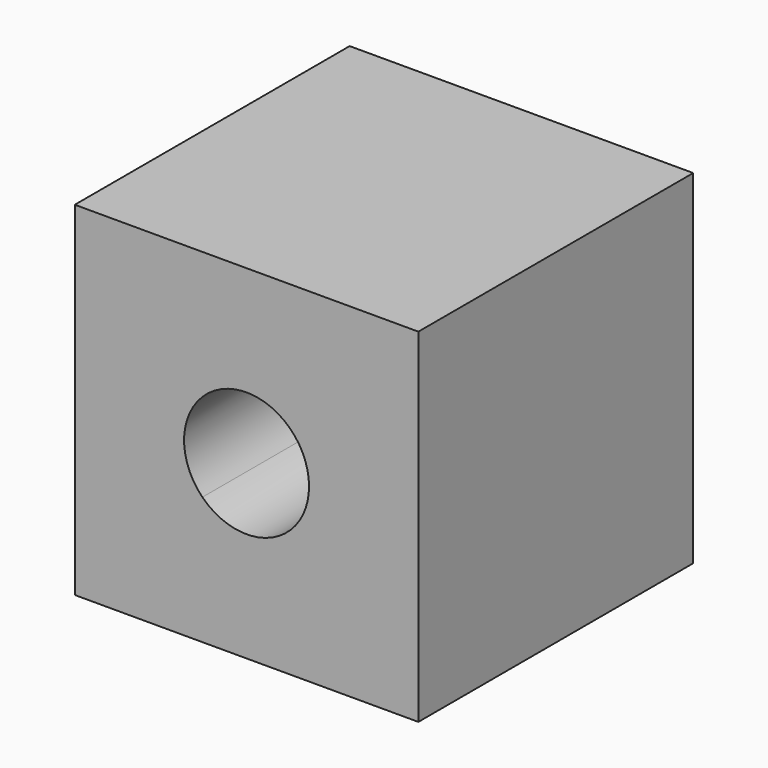
from build123d import *

# Parameters (mm, degrees)
F0_W     = 22
F0_H     = 22
F1_DEPTH = 22
F5_DEPTH = 22.001


with BuildPart() as f1:
    # F0 (on Front) → F1 (new body)
    with BuildSketch(Plane.XZ):
        with Locations((12.5, 12.5)):
            Rectangle(F0_W, F0_H)
    extrude(amount=F1_DEPTH)

    # F2 (on face) → F5 (cut, through all)
    with BuildSketch(Plane.XZ.offset(22)):
        with BuildLine():
            Line((15.3284271247, 15.3284271247), (12.5, 12.5))
            Line((12.5, 12.5), (15.3284271247, 9.6715728753))
            ThreePointArc((15.3284271247, 9.6715728753), (16.19551813, 10.9692662705), (16.5, 12.5))
            ThreePointArc((16.5, 12.5), (16.19551813, 14.0307337295), (15.3284271247, 15.3284271247))
        make_face()
        with BuildLine():
            ThreePointArc((15.3284271247, 15.3284271247), (12.5, 16.5), (9.6715728753, 15.3284271247))
            Line((9.6715728753, 15.3284271247), (12.5, 12.5))
            Line((12.5, 12.5), (15.3284271247, 15.3284271247))
        make_face()
        with BuildLine():
            Line((12.5, 12.5), (9.6715728753, 15.3284271247))
            ThreePointArc((9.6715728753, 15.3284271247), (8.5, 12.5), (9.6715728753, 9.6715728753))
            Line((9.6715728753, 9.6715728753), (12.5, 12.5))
        make_face()
        with BuildLine():
            Line((15.3284271247, 9.6715728753), (12.5, 12.5))
            Line((12.5, 12.5), (9.6715728753, 9.6715728753))
            ThreePointArc((9.6715728753, 9.6715728753), (12.5, 8.5), (15.3284271247, 9.6715728753))
        make_face()
    extrude(amount=-F5_DEPTH, mode=Mode.SUBTRACT)


solid = f1.part
